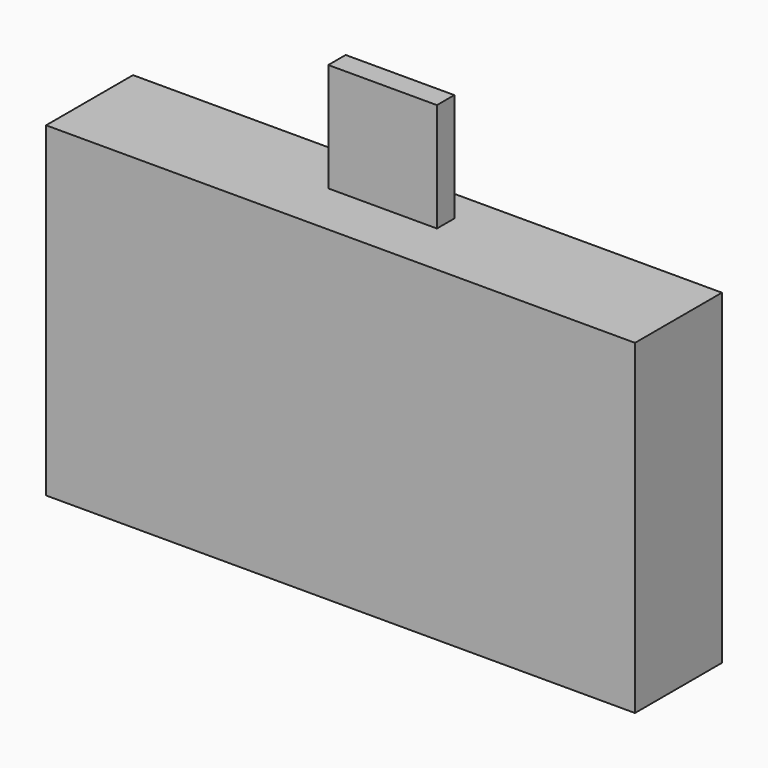
from build123d import *

# Parameters (mm, degrees)
F0_W     = 137.6970596611
F0_H     = 76.2
F1_DEPTH = 10.922
F2_DEPTH = 25.4
F3_W     = 25.4
F3_H     = 5.08
F4_DEPTH = 25.4


with BuildPart() as f1:
    # F0 (on Front) → F1 (new body)
    with BuildSketch(Plane.XZ):
        with Locations((33.4425289184, 17.1839999914)):
            Rectangle(F0_W, F0_H)
    extrude(amount=F1_DEPTH)

    # F0 (on Front) → F2 (join)
    with BuildSketch(Plane.XZ):
        with Locations((33.4425289184, 17.1839999914)):
            Rectangle(F0_W, F0_H)
    extrude(amount=F2_DEPTH)

    # F3 (on face) → F4 (join)
    with BuildSketch(Plane.XY.offset(55.2839999914)):
        with Locations((33.1148739576, -10.16)):
            Rectangle(F3_W, F3_H)
    extrude(amount=F4_DEPTH)


solid = f1.part
